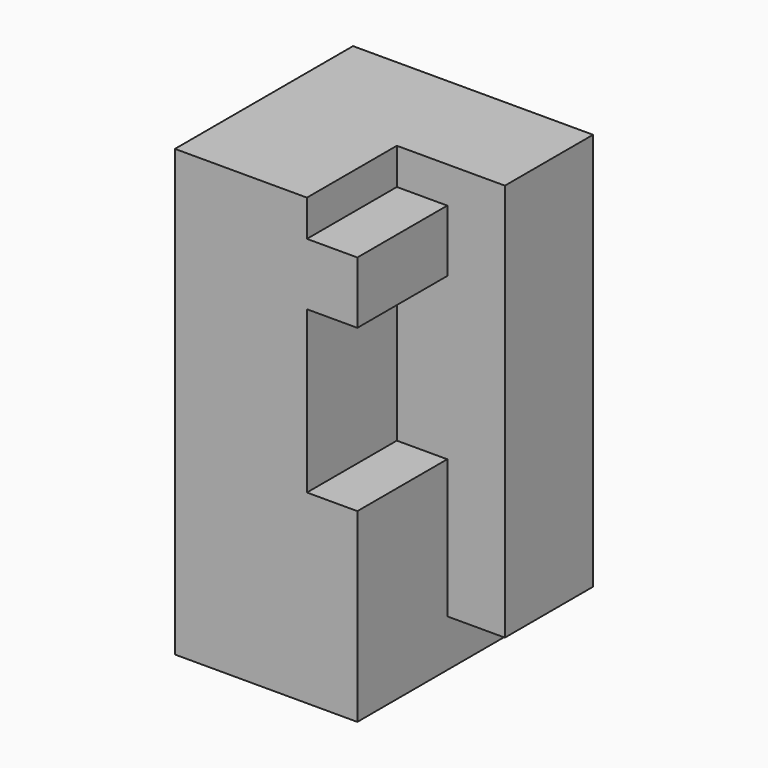
from build123d import *

# Parameters (mm, degrees)
F1_DEPTH = 15.6972
F2_DEPTH = 7.7724


with BuildPart() as f1:
    # F0 (on Front) → F1 (new body)
    with BuildSketch(Plane.XZ):
        Polygon((6.352456, -39.260605), (19.217027, -39.260605), (19.217027, -35.928176), (19.217027, -26.174273), (15.661027, -26.174273), (6.352456, -26.174273), align=None)
        Polygon((6.352456, -7.866205), (6.352456, -26.174273), (15.661027, -26.174273), (15.661027, -14.795073), (19.217027, -14.795073), (19.217027, -10.426273), (15.661027, -10.426273), (15.661027, -7.866205), align=None)
    extrude(amount=F1_DEPTH)

    # F0 (on Front) → F2 (join)
    with BuildSketch(Plane.XZ):
        Polygon((19.217027, -26.174273), (19.217027, -35.928176), (23.281027, -35.928176), (23.281027, -7.866205), (15.661027, -7.866205), (15.661027, -10.426273), (19.217027, -10.426273), (19.217027, -14.795073), (15.661027, -14.795073), (15.661027, -26.174273), align=None)
    extrude(amount=F2_DEPTH)


solid = f1.part
